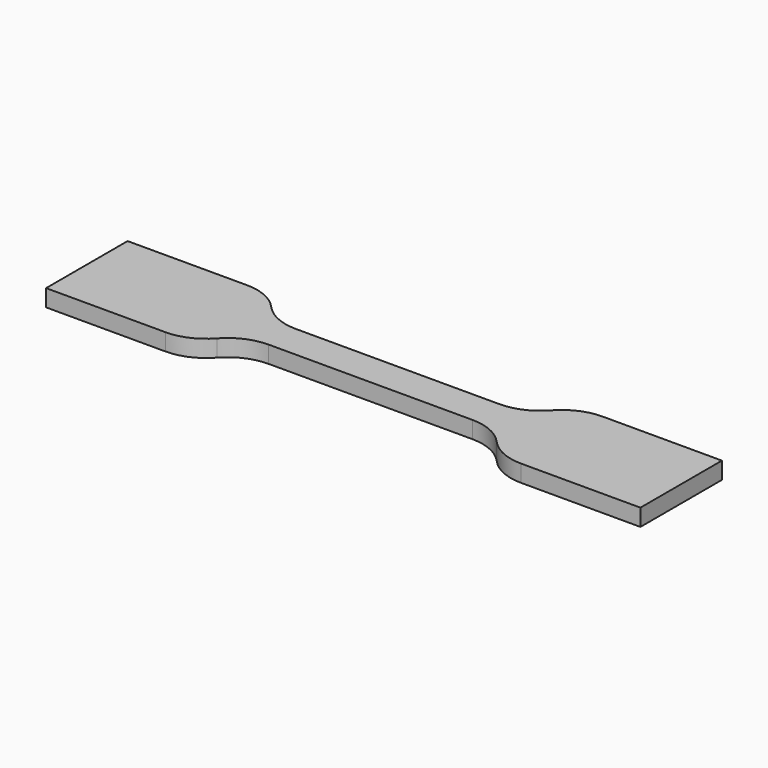
from build123d import *

# Parameters (mm, degrees)
F1_DEPTH = 1


with BuildPart() as f1:
    # F0 (on Top) → F1 (new body)
    with BuildSketch(Plane.XY):
        with BuildLine():
            Line((-10.472136, 2.97619), (-17.5, 2.97619))
            Line((-17.5, 2.97619), (-17.5, -0.02381))
            Line((-17.5, -0.02381), (-17.5, -3.02381))
            Line((-17.5, -3.02381), (-10.472136, -3.02381))
            ThreePointArc((-10.472136, -3.02381), (-9.247391, -2.762422), (-8.236068, -2.02381))
            ThreePointArc((-8.236068, -2.02381), (-7.224745, -1.285197), (-6, -1.02381))
            Line((-6, -1.02381), (0, -1.02381))
            Line((0, -1.02381), (6, -1.02381))
            ThreePointArc((6, -1.02381), (7.224745, -1.285197), (8.236068, -2.02381))
            ThreePointArc((8.236068, -2.02381), (9.247391, -2.762422), (10.472136, -3.02381))
            Line((10.472136, -3.02381), (17.5, -3.02381))
            Line((17.5, -3.02381), (17.5, -0.02381))
            Line((17.5, -0.02381), (17.5, 2.97619))
            Line((17.5, 2.97619), (10.472136, 2.97619))
            ThreePointArc((10.472136, 2.97619), (9.247391, 2.714803), (8.236068, 1.97619))
            ThreePointArc((8.236068, 1.97619), (7.224745, 1.237578), (6, 0.97619))
            Line((6, 0.97619), (0, 0.97619))
            Line((0, 0.97619), (-6, 0.97619))
            ThreePointArc((-6, 0.97619), (-7.224745, 1.237578), (-8.236068, 1.97619))
            ThreePointArc((-8.236068, 1.97619), (-9.247391, 2.714803), (-10.472136, 2.97619))
        make_face()
    extrude(amount=F1_DEPTH)


solid = f1.part
